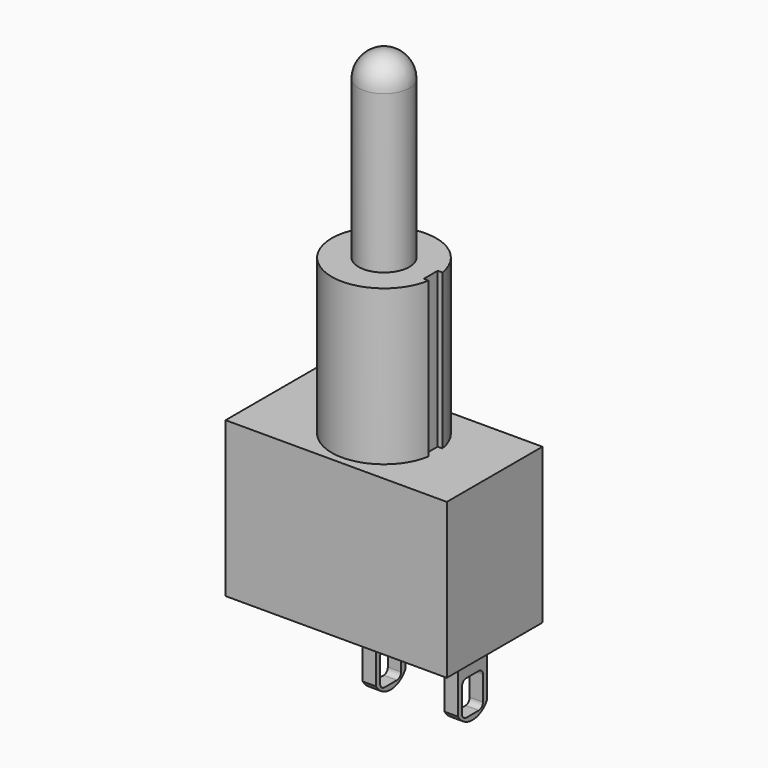
from build123d import *

# Parameters (mm, degrees)
F0_W      = 12.7
F0_H      = 6.86
F1_DEPTH  = 8.89
F2_R      = 3
F3_DEPTH  = 8.89
F4_R      = 1.46
F5_DEPTH  = 10.5
F6_R      = 1.46
F7_W      = 0.434782
F7_H      = 1
F8_DEPTH  = 25
F9_W      = 0.76
F9_H      = 2.1
F10_DEPTH = 3.94
F12_DEPTH = 11.431


with BuildPart() as f1:
    # F0 (on Top) → F1 (new body)
    with BuildSketch(Plane.XY):
        Rectangle(F0_W, F0_H)
    extrude(amount=-F1_DEPTH)

    # F2 (on Top) → F3 (join)
    with BuildSketch(Plane.XY):
        Circle(F2_R)
    extrude(amount=F3_DEPTH)

    # F4 (on face) → F5 (join)
    with BuildSketch(Plane.XY.offset(8.89)):
        Circle(F4_R)
    extrude(amount=F5_DEPTH)

    # F6
    f6_edges = [f1.edges().sort_by_distance(p)[0] for p in [
        (-1.46, 0, 19.39),
    ]]
    fillet(f6_edges, radius=F6_R)

    # F7 (on Top) → F8 (cut)
    with BuildSketch(Plane.XY):
        with Locations((2.9, 0)):
            Rectangle(F7_W, F7_H)
    extrude(amount=F8_DEPTH, mode=Mode.SUBTRACT)

    # F9 (on face) → F10 (join)
    with BuildSketch(Plane(origin=(0, 0, -8.89), x_dir=(1, 0, 0), z_dir=(0, 0, -1))):
        Rectangle(F9_W, F9_H)
        with Locations((4.7, 0)):
            Rectangle(F9_W, F9_H)
    extrude(amount=F10_DEPTH)

    # F11 (on face) → F12 (cut, through all)
    with BuildSketch(Plane.YZ.offset(5.08)):
        with BuildLine():
            Line((0.45, -10.53), (-0.45, -10.53))
            ThreePointArc((-0.45, -10.53), (-0.662132, -10.617868), (-0.75, -10.83))
            Line((-0.75, -10.83), (-0.75, -12.23))
            ThreePointArc((-0.75, -12.23), (-0.662132, -12.442132), (-0.45, -12.53))
            Line((-0.45, -12.53), (0.45, -12.53))
            ThreePointArc((0.45, -12.53), (0.662132, -12.442132), (0.75, -12.23))
            Line((0.75, -12.23), (0.75, -10.83))
            ThreePointArc((0.75, -10.83), (0.662132, -10.617868), (0.45, -10.53))
        make_face()
        with BuildLine():
            ThreePointArc((1.05, -12.23), (0.604669, -12.669421), (0, -12.83))
            Line((0, -12.83), (1.05, -12.83))
            Line((1.05, -12.83), (1.05, -12.23))
        make_face()
        with BuildLine():
            ThreePointArc((0, -12.83), (-0.604669, -12.669421), (-1.05, -12.23))
            Line((-1.05, -12.23), (-1.05, -12.83))
            Line((-1.05, -12.83), (0, -12.83))
        make_face()
    extrude(amount=-F12_DEPTH, mode=Mode.SUBTRACT)


solid = f1.part
